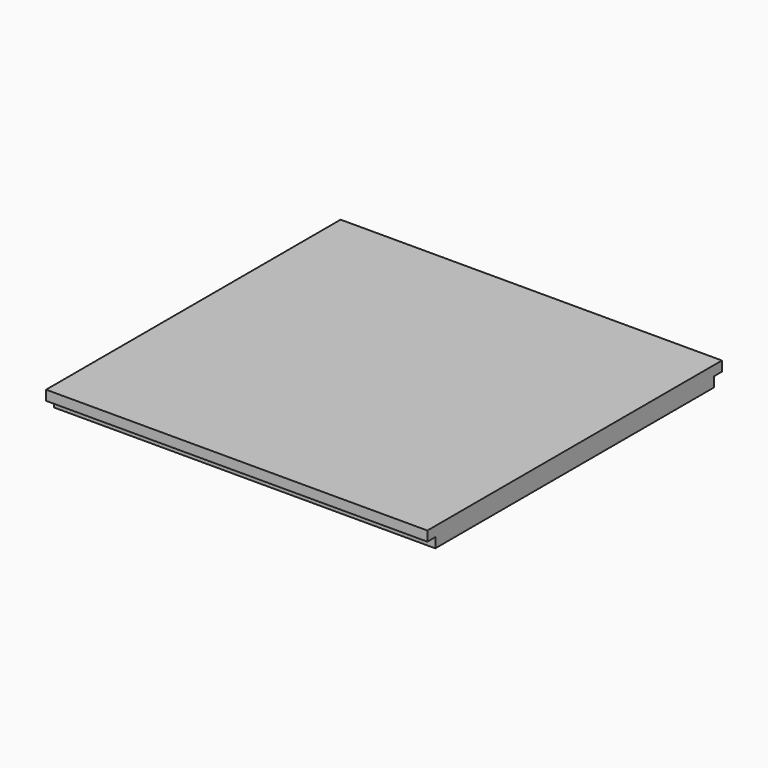
from build123d import *

# Parameters (mm, degrees)
F0_W     = 174
F0_H     = 168
F1_DEPTH = 9
F2_W     = 174
F2_H     = 4.5
F3_DEPTH = 4.5


with BuildPart() as f1:
    # F0 (on Top) → F1 (new body)
    with BuildSketch(Plane.XY):
        Rectangle(F0_W, F0_H)
    extrude(amount=F1_DEPTH)

    # F2 (on face) → F3 (cut)
    with BuildSketch(Plane(origin=(0, 0, 0), x_dir=(1, 0, 0), z_dir=(0, 0, -1))):
        with Locations((0, 81.75)):
            Rectangle(F2_W, F2_H)
        with Locations((0, -81.75)):
            Rectangle(F2_W, F2_H)
    extrude(amount=-F3_DEPTH, mode=Mode.SUBTRACT)


solid = f1.part
